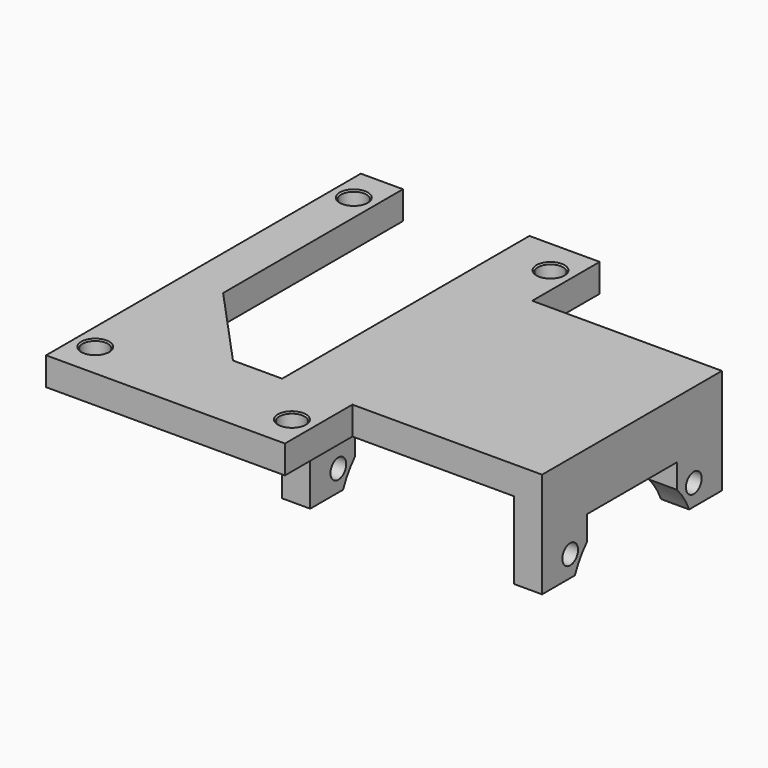
from build123d import *

# Parameters (mm, degrees)
PAD_DEPTH       = 4
POCKET_DEPTH    = 5
SKETCH005_R     = 1.8
POCKET001_DEPTH = 5
SKETCH004_W     = 4
SKETCH004_H     = 32
PAD001_DEPTH    = 11
SKETCH006_R     = 1.4
POCKET002_DEPTH = 100
POCKET003_DEPTH = 100
CHAMFER001_SIZE = 0.2


with BuildPart() as part:
    # Sketch → Pad (new body)
    with BuildSketch(Plane.XY):
        Polygon((-17, 28), (17, 28), (17, 16), (44, 16), (44, -16), (17, -16), (17, -28), (-17, -28), align=None)
    extrude(amount=PAD_DEPTH)

    # Sketch003 → Pocket (cut)
    with BuildSketch(Plane.XY.offset(4)):
        Polygon((-11, 28), (-11, -4), (0, -16), (7, -16), (7, 28), align=None)
    extrude(amount=-POCKET_DEPTH, mode=Mode.SUBTRACT)

    # Sketch005 (on Face4 of Pocket) → Pocket001 (cut)
    with BuildSketch(Plane.XY.offset(4)):
        with Locations((14, 23)):
            Circle(SKETCH005_R)
        with Locations((14, -23)):
            Circle(SKETCH005_R)
        with Locations((-14, -23)):
            Circle(SKETCH005_R)
        with Locations((-14, 23)):
            Circle(SKETCH005_R)
    extrude(amount=-POCKET001_DEPTH, mode=Mode.SUBTRACT)

    # Sketch004 (on Face2 of Pocket) → Pad001 (join)
    with BuildSketch(Plane(origin=(0, 0, 0), x_dir=(1, 0, 0), z_dir=(0, 0, -1))):
        with Locations((42, 0)):
            Rectangle(SKETCH004_W, SKETCH004_H)
        with Locations((9, 0)):
            Rectangle(SKETCH004_W, SKETCH004_H)
    extrude(amount=PAD001_DEPTH)

    # Sketch006 (on Face29 of Pad001) → Pocket002 (cut)
    with BuildSketch(Plane.YZ.offset(44)):
        with Locations((-11, -8)):
            Circle(SKETCH006_R)
        with Locations((11, -8)):
            Circle(SKETCH006_R)
    extrude(amount=-POCKET002_DEPTH, mode=Mode.SUBTRACT)

    # Sketch007 (on Face33 of Pocket002) → Pocket003 (cut)
    with BuildSketch(Plane.YZ.offset(44)):
        with BuildLine():
            Line((8, -7.650166), (8, -4.2))
            Line((8, -4.2), (-8, -4.2))
            Line((-8, -4.2), (-8, -7.650166))
            ThreePointArc((-8, -7.650166), (0, -26.2), (8, -7.650166))
        make_face()
    extrude(amount=-POCKET003_DEPTH, mode=Mode.SUBTRACT)

    # Chamfer001
    chamfer001_edges = [part.edges().sort_by_distance(p)[0] for p in [
        (-15.8, 23, 4),
        (-15.8, -23, 4),
        (12.2, -23, 4),
        (12.2, 23, 4),
    ]]
    chamfer(chamfer001_edges, length=CHAMFER001_SIZE)


solid = part.part
